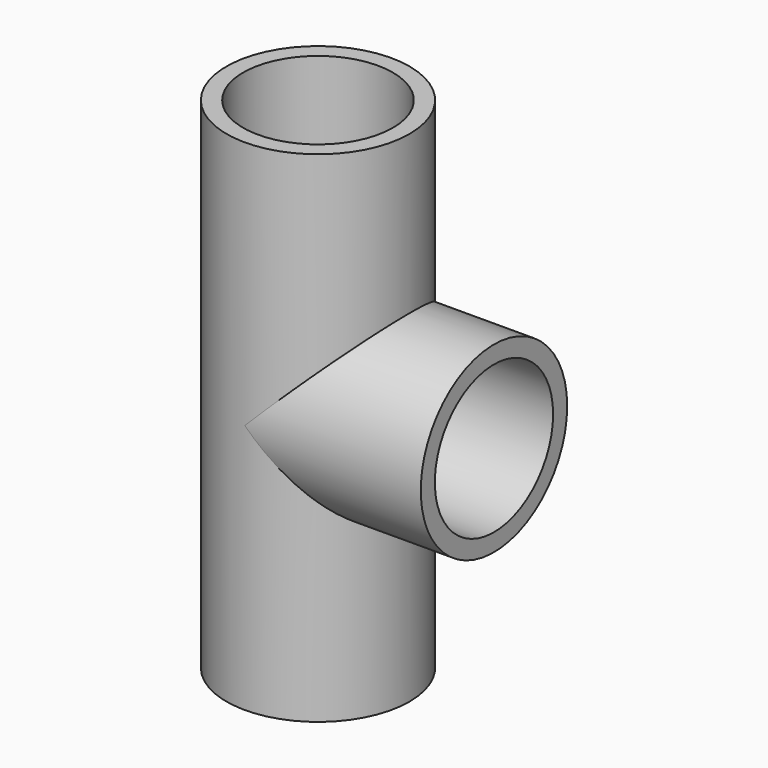
from build123d import *

# Parameters (mm, degrees)
F0_R     = 13.208
F0_R_2   = 10.668
F1_DEPTH = 72.136
F2_R     = 13.208
F2_R_2   = 10.668
F3_DEPTH = 25.4
F4_R     = 10.255717
F5_DEPTH = 25.4
F6_R     = 10.806654
F7_DEPTH = 76.2


with BuildPart() as f1:
    # F0 (on Top) → F1 (new body)
    with BuildSketch(Plane.XY):
        Circle(F0_R)
        Circle(F0_R_2, mode=Mode.SUBTRACT)
    extrude(amount=F1_DEPTH)

    # F2 (on Right) → F3 (join)
    with BuildSketch(Plane.YZ):
        with Locations((0, 36.155518)):
            Circle(F2_R)
        with Locations((0, 36.155518)):
            Circle(F2_R_2, mode=Mode.SUBTRACT)
    extrude(amount=F3_DEPTH)

    # F4 (on Right) → F5 (cut)
    with BuildSketch(Plane.YZ):
        with Locations((0, 35.921648)):
            Circle(F4_R)
    extrude(amount=F5_DEPTH, mode=Mode.SUBTRACT)

    # F6 (on Top) → F7 (cut)
    with BuildSketch(Plane.XY):
        Circle(F6_R)
    extrude(amount=F7_DEPTH, mode=Mode.SUBTRACT)


solid = f1.part
